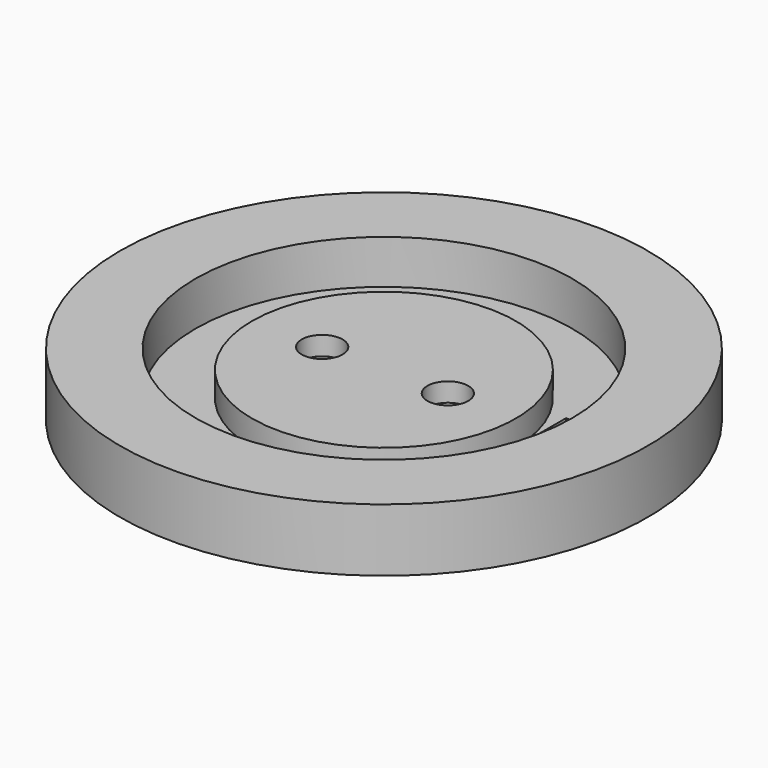
from build123d import *

# Parameters (mm, degrees)
F2_W           = 7.2961132542
F2_H           = 9.9664424297
F2_H_2         = 9.7550563514
F3_DEPTH       = 25
F4_W           = 55
F4_H           = 15
F5_DEPTH       = 2
F7_D           = 3.3
F7_CBORE_D     = 6.5
F7_CBORE_DEPTH = 3


with BuildPart() as f1:
    # F0 (on Front) → F1 (revolve)
    with BuildSketch(Plane.XZ):
        Polygon((-42, 0), (0, 0), (0, 7), (-21, 7), (-21, 3), (-30, 3), (-30, 10), (-42, 10), align=None)
    revolve(axis=Axis((0, 0, 3.5), (0, 0, 1)))

    # F2 (on face) → F3 (cut)
    with BuildSketch(Plane.XY.offset(3)):
        with Locations((24.6480566271, 4.9832212149)):
            Rectangle(F2_W, F2_H)
        with Locations((24.6480566271, -4.8775281757)):
            Rectangle(F2_W, F2_H_2)
    extrude(amount=-F3_DEPTH, mode=Mode.SUBTRACT)

    # F4 (on face) → F5 (cut)
    with BuildSketch(Plane(origin=(0, 0, 0), x_dir=(1, 0, 0), z_dir=(0, 0, -1))):
        with Locations((-6.5, 13.2730269618)):
            Rectangle(F4_W, F4_H)
    extrude(amount=-F5_DEPTH, mode=Mode.SUBTRACT)

    # F7 (through all)
    with Locations(Plane.XY.offset(7)):
        with Locations((-9.8275868147, 0), (10.1724131853, 0)):
            CounterBoreHole(F7_D / 2, F7_CBORE_D / 2, F7_CBORE_DEPTH)


solid = f1.part
